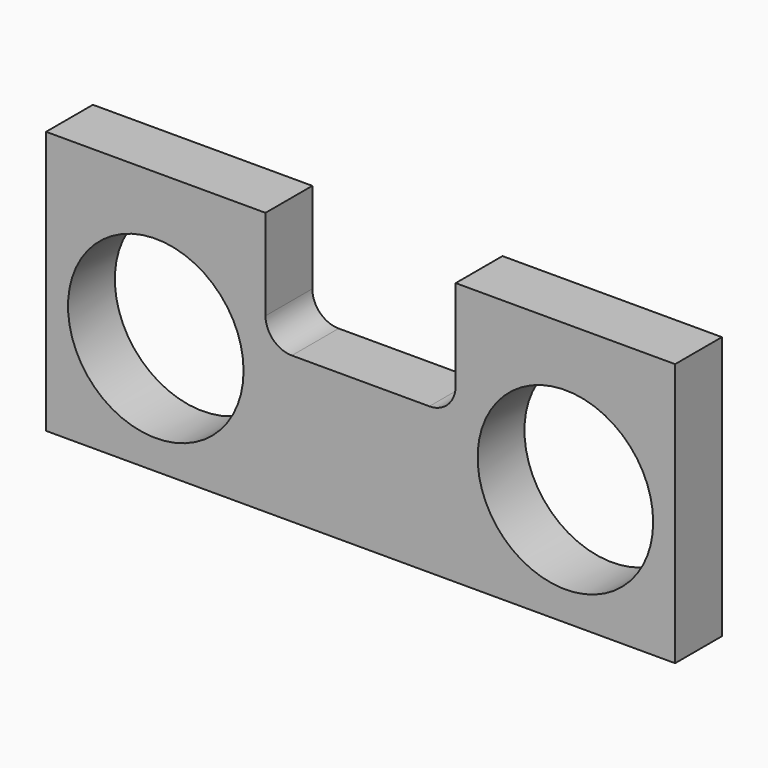
from build123d import *

# Parameters (mm, degrees)
F0_W     = 273.05
F0_H     = 114.3
F1_DEPTH = 25.4
F2_R     = 38.1
F3_DEPTH = 25.4
F5_DEPTH = 25.4


with BuildPart() as f1:
    # F0 (on Front) → F1 (new body)
    with BuildSketch(Plane.XZ):
        with Locations((136.525, 57.15)):
            Rectangle(F0_W, F0_H)
    extrude(amount=F1_DEPTH)

    # F2 (on face) → F3 (cut)
    with BuildSketch(Plane.XZ.offset(25.4)):
        with Locations((47.625, 50.8)):
            Circle(F2_R)
        with Locations((225.425, 50.8)):
            Circle(F2_R)
    extrude(amount=-F3_DEPTH, mode=Mode.SUBTRACT)

    # F4 (on face) → F5 (cut)
    with BuildSketch(Plane.XZ.offset(25.4)):
        with BuildLine():
            Line((177.8, 114.3), (95.25, 114.3))
            Line((95.25, 114.3), (95.25, 74.93))
            ThreePointArc((95.25, 74.93), (98.597769, 66.847769), (106.68, 63.5))
            Line((106.68, 63.5), (166.37, 63.5))
            ThreePointArc((166.37, 63.5), (174.452231, 66.847769), (177.8, 74.93))
            Line((177.8, 74.93), (177.8, 114.3))
        make_face()
    extrude(amount=-F5_DEPTH, mode=Mode.SUBTRACT)


solid = f1.part
